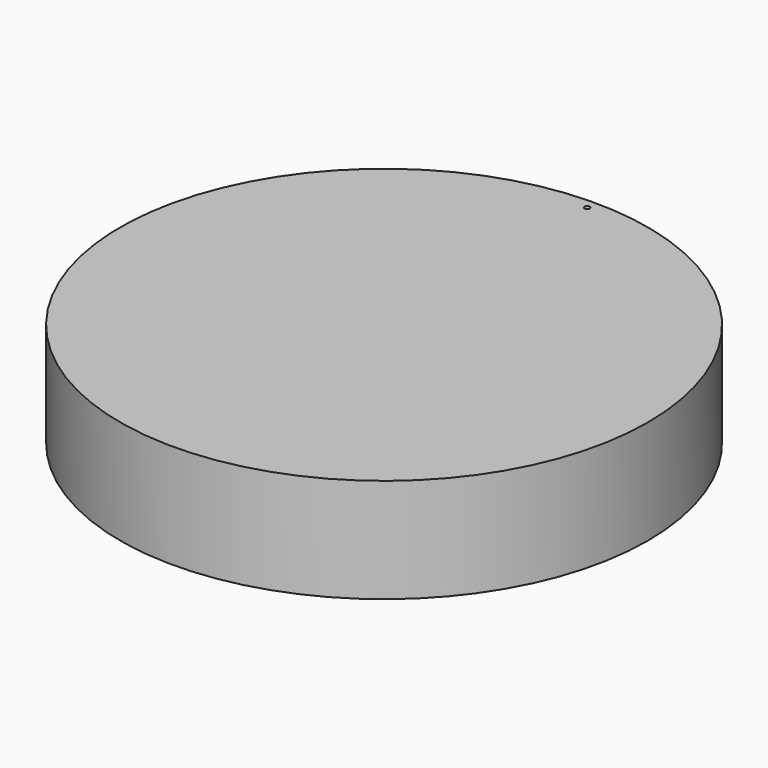
from build123d import *

# Parameters (mm, degrees)
F0_R     = 51.5
F1_DEPTH = 20.32
F3_R     = 0.127
F4_DEPTH = 0.254
F2_R     = 0.508
F5_DEPTH = 25.4


with BuildPart() as f1:
    # F0 (on Top) → F1 (new body)
    with BuildSketch(Plane.XY):
        Circle(F0_R)
    extrude(amount=F1_DEPTH)

    # F2 (on Top) → F5 (cut)
    with BuildSketch(Plane.XY):
        with Locations((0, 49.53)):
            Circle(F2_R)
    extrude(amount=F5_DEPTH, mode=Mode.SUBTRACT)


with BuildPart() as f4:
    # F3 (on Top) → F4 (new body)
    with BuildSketch(Plane.XY):
        Circle(F3_R)
    extrude(amount=-F4_DEPTH)


solid = Compound([f1.part, f4.part])
